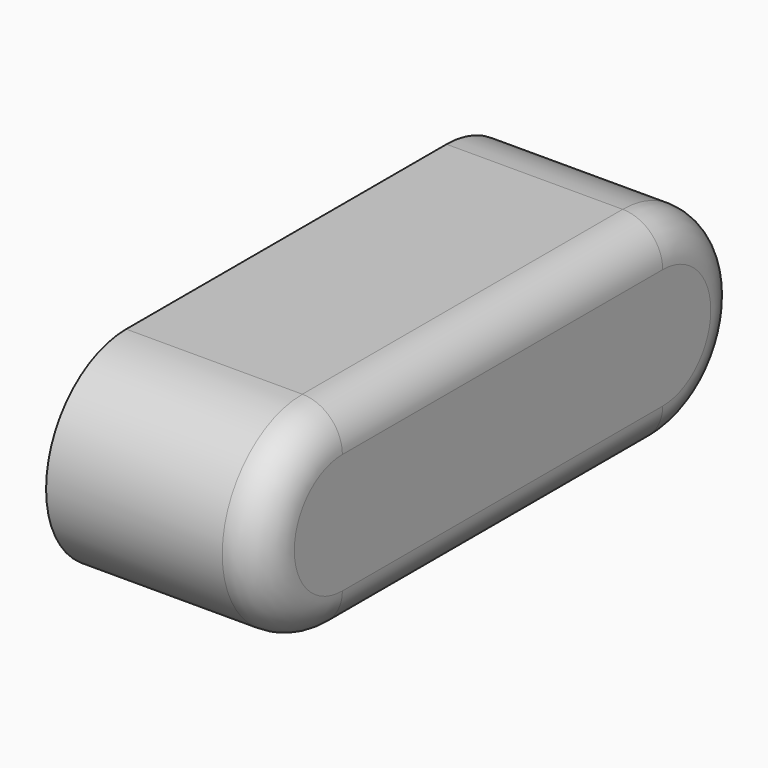
from build123d import *

# Parameters (mm, degrees)
F1_DEPTH = 1.35
F2_R     = 0.5


with BuildPart() as f1:
    # F0 (on Right) → F1 (new body, symmetric)
    with BuildSketch(Plane.YZ):
        with BuildLine():
            Line((2.5, 1.25), (-2.5, 1.25))
            ThreePointArc((-2.5, 1.25), (-3.75, 0), (-2.5, -1.25))
            Line((-2.5, -1.25), (2.5, -1.25))
            ThreePointArc((2.5, -1.25), (3.75, 0), (2.5, 1.25))
        make_face()
    extrude(amount=F1_DEPTH, both=True)

    # F2
    f2_edges = [f1.edges().sort_by_distance(p)[0] for p in [
        (1.35, 0, 1.25),
        (1.35, -3.75, 0),
        (1.35, 0, -1.25),
        (1.35, 3.75, 0),
    ]]
    fillet(f2_edges, radius=F2_R)


solid = f1.part
